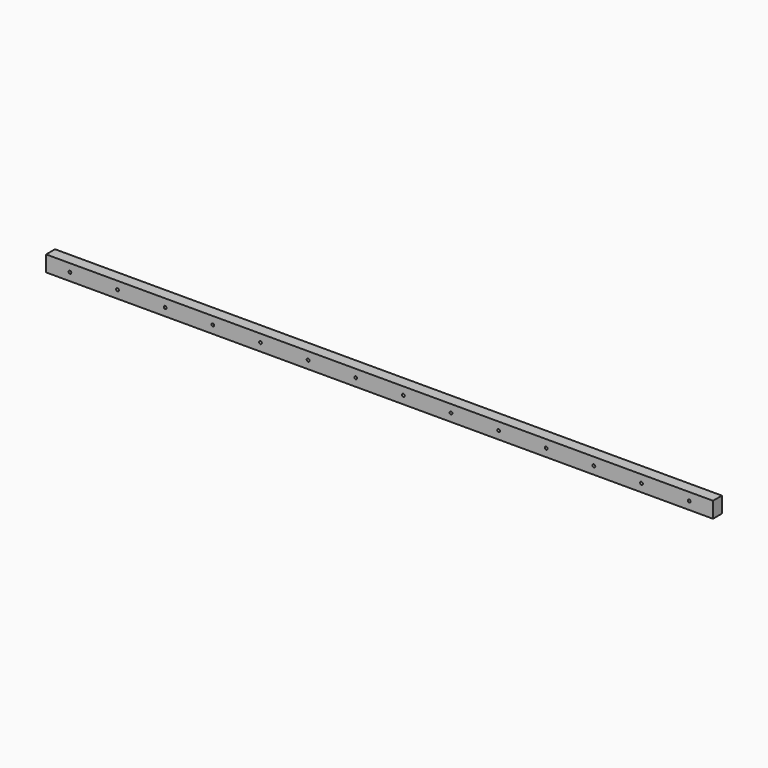
from build123d import *

# Parameters (mm, degrees)
F0_W          = 17.8562
F0_H          = 25.4
F1_DEPTH      = 609.6
F1_DEPTH_BACK = 457.2
F3_D          = 4.4958


with BuildPart() as f1:
    # F0 (on Right) → F1 (new body, two sides)
    with BuildSketch(Plane.YZ) as f1_sk:
        with Locations((-8.9281, 12.7)):
            Rectangle(F0_W, F0_H)
    extrude(amount=F1_DEPTH)
    extrude(f1_sk.sketch, amount=-F1_DEPTH_BACK)

    # F3 (through all)
    with Locations(Plane.XZ.offset(17.8562)):
        with Locations((-419.1, 12.7), (-342.9, 12.7), (-266.7, 12.7), (-190.5, 12.7), (-114.3, 12.7), (-38.1, 12.7), (38.1, 12.7), (114.3, 12.7), (190.5, 12.7), (266.7, 12.7), (342.9, 12.7), (419.1, 12.7), (495.3, 12.7), (571.5, 12.7)):
            Hole(F3_D / 2)


solid = f1.part
